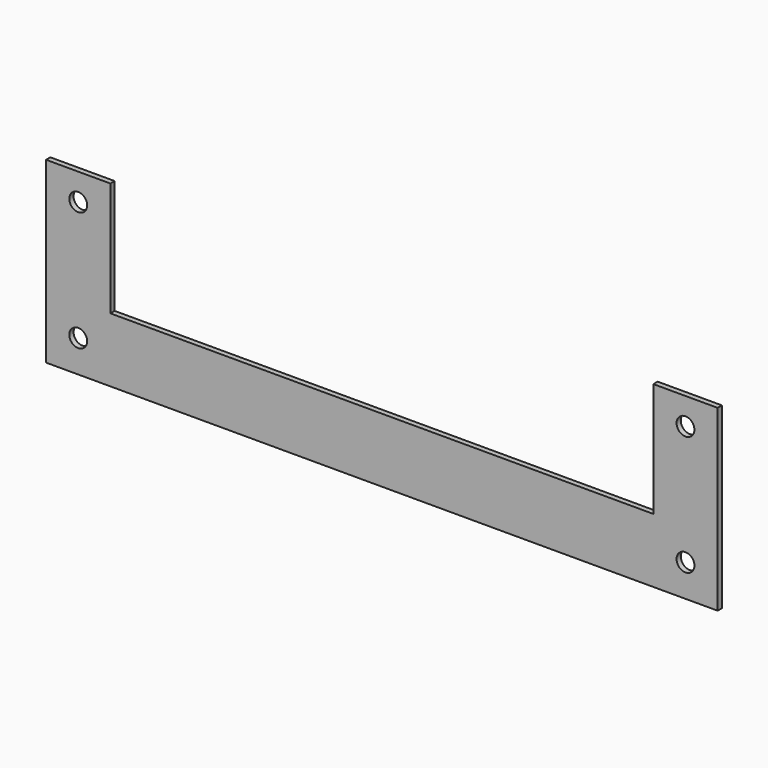
from build123d import *

# Parameters (mm, degrees)
F0_R     = 2.5
F1_DEPTH = 1.5


with BuildPart() as f1:
    # F0 (on Front) → F1 (new body)
    with BuildSketch(Plane.XZ):
        Polygon((-94, 0), (0, 0), (94, 0), (94, 50), (76, 50), (76, 18), (0, 18), (-76, 18), (-76, 50), (-94, 50), align=None)
        with Locations((-85, 9)):
            Circle(F0_R, mode=Mode.SUBTRACT)
        with Locations((85, 9)):
            Circle(F0_R, mode=Mode.SUBTRACT)
        with Locations((-85, 42.5)):
            Circle(F0_R, mode=Mode.SUBTRACT)
        with Locations((85, 42.5)):
            Circle(F0_R, mode=Mode.SUBTRACT)
    extrude(amount=F1_DEPTH)


solid = f1.part
